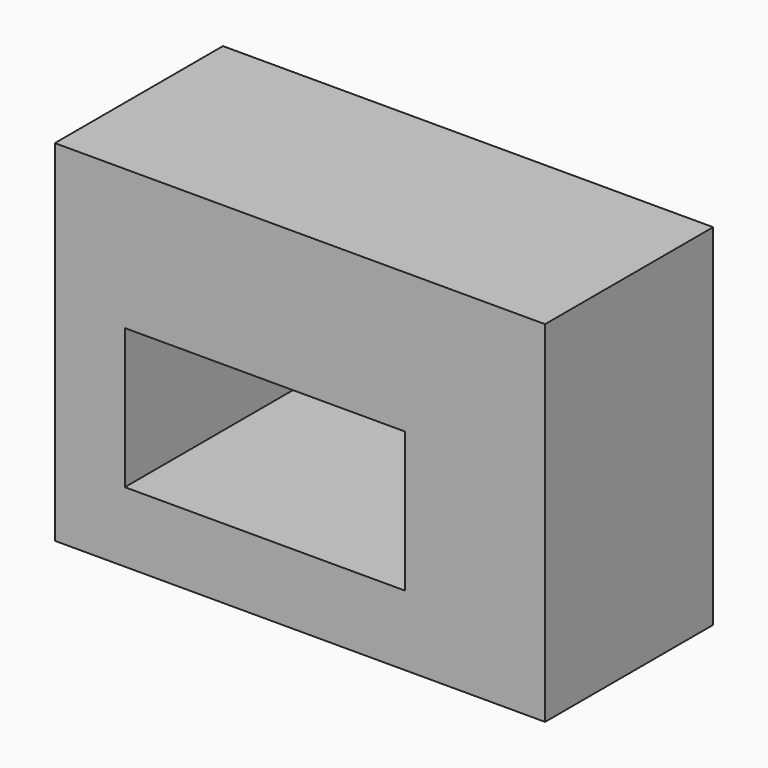
from build123d import *

# Parameters (mm, degrees)
F0_W        = 70
F0_H        = 50
F0_W_2      = 40
F0_H_2      = 20
F2_DEPTH    = 10
F1_W        = 70
F1_H        = 50
F1_W_2      = 40
F1_H_2      = 20
F2_FACE_W   = 70
F2_FACE_H   = 50
F2_FACE_W_2 = 40
F2_FACE_H_2 = 20
F3_DEPTH    = 10
F4_DEPTH    = 10


with BuildPart() as f2:
    # F0 (on Front) → F2 (new body)
    with BuildSketch(Plane.XZ):
        with Locations((35, 25)):
            Rectangle(F0_W, F0_H)
        with Locations((30, 20)):
            Rectangle(F0_W_2, F0_H_2, mode=Mode.SUBTRACT)
    extrude(amount=F2_DEPTH)

    # F1 (on face) + F2_face (on face) → F3 (join)
    with BuildSketch(Plane.XZ):
        with Locations((35, 25)):
            Rectangle(F1_W, F1_H)
        with Locations((30, 20)):
            Rectangle(F1_W_2, F1_H_2, mode=Mode.SUBTRACT)
    with BuildSketch(Plane(origin=(36.4814814815, -10, 26.4814814815), x_dir=(1, 0, 0), z_dir=(0, -1, 0))):
        with Locations((-1.4814814815, -1.4814814815)):
            Rectangle(F2_FACE_W, F2_FACE_H)
        with Locations((-6.4814814815, -6.4814814815)):
            Rectangle(F2_FACE_W_2, F2_FACE_H_2, mode=Mode.SUBTRACT)
    extrude(amount=F3_DEPTH)

    # F4 (add): faces of the model
    f4_faces = [f2.faces().sort_by_distance(p)[0] for p in [
        (35, 0, 49.1397674733),
        (35, -20, 49.1397674733),
    ]]
    extrude(f4_faces, amount=F4_DEPTH, dir=(0, 1, 0))


solid = f2.part
